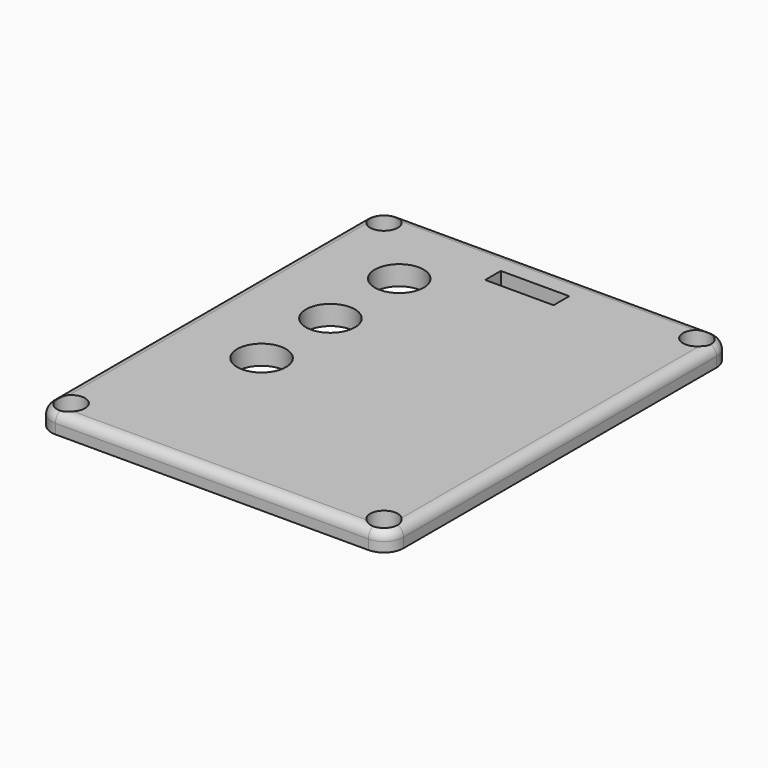
from build123d import *

# Parameters (mm, degrees)
F1_DEPTH = 3.175
F2_R     = 1.5875
F3_R     = 2.249995
F4_DEPTH = 3.176
F5_R     = 3.96875
F5_W     = 11.1125
F5_H     = 3.175
F6_DEPTH = 3.176


with BuildPart() as f1:
    # F0 (on Top) → F1 (new body)
    with BuildSketch(Plane.XY):
        with BuildLine():
            Line((25.4, 34.925), (-25.4, 34.925))
            ThreePointArc((-25.4, 34.925), (-27.645064, 33.995064), (-28.575, 31.75))
            Line((-28.575, 31.75), (-28.575, -31.75))
            ThreePointArc((-28.575, -31.75), (-27.645064, -33.995064), (-25.4, -34.925))
            Line((-25.4, -34.925), (25.4, -34.925))
            ThreePointArc((25.4, -34.925), (27.645064, -33.995064), (28.575, -31.75))
            Line((28.575, -31.75), (28.575, 31.75))
            ThreePointArc((28.575, 31.75), (27.645064, 33.995064), (25.4, 34.925))
        make_face()
    extrude(amount=F1_DEPTH)

    # F2
    f2_edges = [f1.edges().sort_by_distance(p)[0] for p in [
        (0, -34.925, 3.175),
        (-28.575, 0, 3.175),
    ]]
    fillet(f2_edges, radius=F2_R)

    # F3 (on face) → F4 (cut, through all)
    with BuildSketch(Plane.XY.offset(3.175)):
        with Locations((-25.4, 31.75)):
            Circle(F3_R)
        with Locations((25.4, 31.75)):
            Circle(F3_R)
        with Locations((25.4, -31.75)):
            Circle(F3_R)
        with Locations((-25.4, -31.75)):
            Circle(F3_R)
    extrude(amount=-F4_DEPTH, mode=Mode.SUBTRACT)

    # F5 (on face) → F6 (cut, through all)
    with BuildSketch(Plane.XY.offset(3.175)):
        with Locations((-14.2875, -6.985)):
            Circle(F5_R)
        with Locations((-14.2875, 6.985)):
            Circle(F5_R)
        with Locations((-14.2875, 20.955)):
            Circle(F5_R)
        with Locations((0, 29.059681)):
            Rectangle(F5_W, F5_H)
    extrude(amount=-F6_DEPTH, mode=Mode.SUBTRACT)


solid = f1.part
